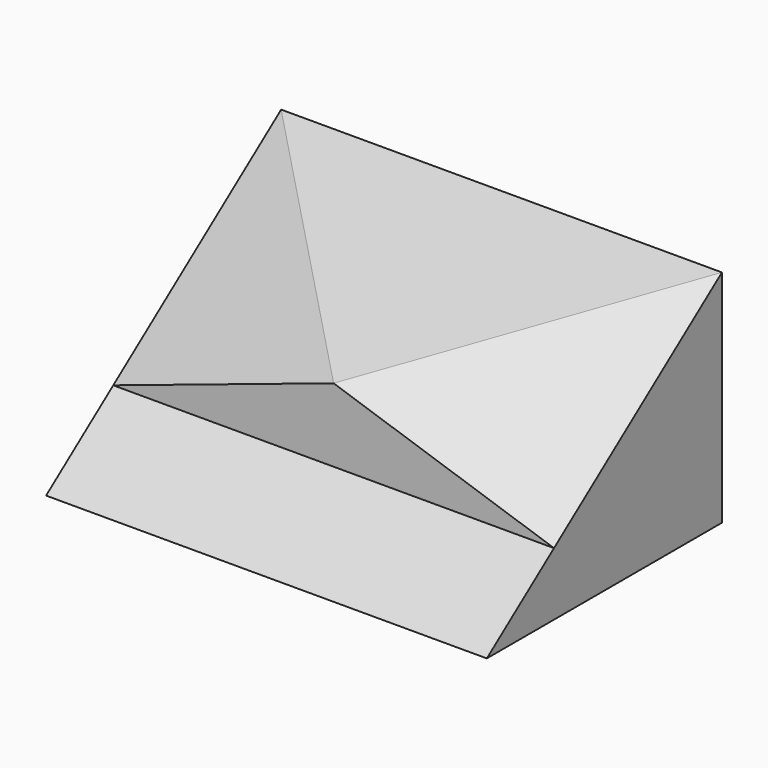
from build123d import *

# Parameters (mm, degrees)
F1_DEPTH  = 6
F11_DEPTH = 6
F12_DEPTH = 25
F13_DEPTH = 25


with BuildPart() as f1:
    # F0 (on Right) → F1 (new body)
    with BuildSketch(Plane.YZ):
        Polygon((4, 3), (0, 0), (4, 0), align=None)
    extrude(amount=F1_DEPTH)

    # F10 (on face) → F11 (join)
    with BuildSketch(Plane.YZ.offset(6)):
        Polygon((1.1428571429, 1.8571428571), (1.1428571429, 0.8571428571), (4, 3), align=None)
    extrude(amount=-F11_DEPTH)

    # F9 (on 3pt) → F12 (cut)
    with BuildSketch(Plane(origin=(0.398340249, -0.8962655602, 1.1950207469), x_dir=(0.9662349396, 0.1545975903, -0.2061301204), z_dir=(-0.2576626506, 0.5797409638, -0.7729879517))):
        Polygon((5.7974096376, -1.4285714286), (2.6925746984, -2.0285714286), (5.7974096376, -5), align=None)
    extrude(amount=-F12_DEPTH, mode=Mode.SUBTRACT)

    # F7 (on 3pt) → F13 (cut)
    with BuildSketch(Plane(origin=(0, 0, 0), x_dir=(0.9662349396, -0.1545975903, 0.2061301204), z_dir=(-0.2576626506, -0.5797409638, 0.7729879517))):
        Polygon((3.1048349393, 2.0285714286), (0, 5), (0, 1.4285714286), align=None)
    extrude(amount=F13_DEPTH, mode=Mode.SUBTRACT)


solid = f1.part
